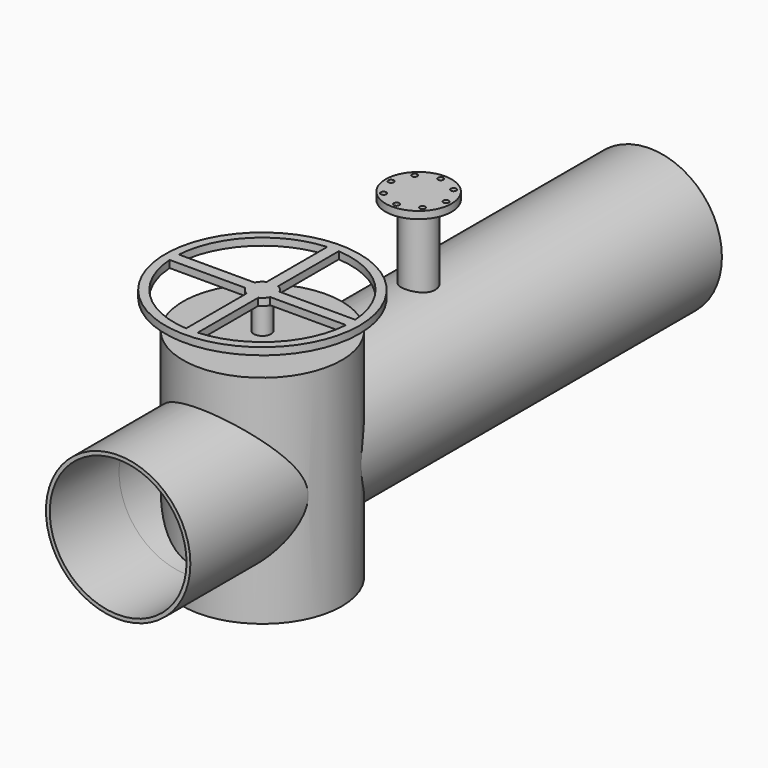
from build123d import *

# Parameters (mm, degrees)
F0_R      = 250
F0_R_2    = 237.3
F1_DEPTH  = 2000
F2_R      = 57
F3_DEPTH  = 500
F4_R      = 114.3
F5_DEPTH  = 25
F6_R      = 9.5
F7_DEPTH  = 30
F8_R      = 250
F8_R_2    = 236.736857
F9_DEPTH  = 300
F10_R     = 275
F11_DEPTH = 375
F12_R     = 30
F13_DEPTH = 100
F14_R     = 335.925566
F15_DEPTH = 25


with BuildPart() as f1:
    # F0 (on Front) → F1 (new body)
    with BuildSketch(Plane.XZ):
        Circle(F0_R)
        Circle(F0_R_2, mode=Mode.SUBTRACT)
    extrude(amount=F1_DEPTH)

    # F2 (on Top) → F3 (join)
    with BuildSketch(Plane.XY):
        with Locations((0, -1000)):
            Circle(F2_R)
    extrude(amount=F3_DEPTH)

    # F4 (on face) → F5 (join)
    with BuildSketch(Plane.XY.offset(500)):
        with Locations((0, -1000)):
            Circle(F4_R)
    extrude(amount=F5_DEPTH)

    # F6 (on face) → F7 (cut)
    with BuildSketch(Plane.XY.offset(525)):
        with Locations((0, -904.75)):
            Circle(F6_R)
        with Locations((-67.351921, -932.648079)):
            Circle(F6_R)
        with Locations((-95.25, -1000)):
            Circle(F6_R)
        with Locations((-67.351921, -1067.351921)):
            Circle(F6_R)
        with Locations((0, -1095.25)):
            Circle(F6_R)
        with Locations((67.351921, -1067.351921)):
            Circle(F6_R)
        with Locations((95.25, -1000)):
            Circle(F6_R)
        with Locations((67.351921, -932.648079)):
            Circle(F6_R)
    extrude(amount=-F7_DEPTH, mode=Mode.SUBTRACT)

    # F8 (on face) → F9 (join)
    with BuildSketch(Plane.XZ.offset(2000)):
        Circle(F8_R)
        Circle(F8_R_2, mode=Mode.SUBTRACT)
    extrude(amount=F9_DEPTH)

    # F10 (on Top) → F11 (join, symmetric)
    with BuildSketch(Plane.XY):
        with Locations((0, -1675.77356)):
            Circle(F10_R)
    extrude(amount=F11_DEPTH, both=True)

    # F12 (on face) → F13 (join)
    with BuildSketch(Plane.XY.offset(375)):
        with Locations((0, -1675.77356)):
            Circle(F12_R)
    extrude(amount=F13_DEPTH)

    # F14 (on face) → F15 (join)
    with BuildSketch(Plane.XY.offset(475)):
        with Locations((0, -1675.77356)):
            Circle(F14_R)
        with BuildLine():
            Line((-305.271112, -1695.77356), (-43.08422, -1695.77356))
            ThreePointArc((-43.08422, -1695.77356), (-33.587572, -1709.361132), (-20, -1718.857779))
            Line((-20, -1718.857779), (-20, -1981.044671))
            ThreePointArc((-20, -1981.044671), (-216.322042, -1892.095602), (-305.271112, -1695.77356))
        make_face(mode=Mode.SUBTRACT)
        with BuildLine():
            Line((20, -1981.044671), (20, -1718.857779))
            ThreePointArc((20, -1718.857779), (33.587572, -1709.361132), (43.08422, -1695.77356))
            Line((43.08422, -1695.77356), (305.271112, -1695.77356))
            ThreePointArc((305.271112, -1695.77356), (216.322042, -1892.095602), (20, -1981.044671))
        make_face(mode=Mode.SUBTRACT)
        with BuildLine():
            ThreePointArc((-20, -1632.68934), (-33.587572, -1642.185987), (-43.08422, -1655.77356))
            Line((-43.08422, -1655.77356), (-305.271112, -1655.77356))
            ThreePointArc((-305.271112, -1655.77356), (-216.322042, -1459.451518), (-20, -1370.502448))
            Line((-20, -1370.502448), (-20, -1632.68934))
        make_face(mode=Mode.SUBTRACT)
        with BuildLine():
            Line((305.271112, -1655.77356), (43.08422, -1655.77356))
            ThreePointArc((43.08422, -1655.77356), (33.587572, -1642.185987), (20, -1632.68934))
            Line((20, -1632.68934), (20, -1370.502448))
            ThreePointArc((20, -1370.502448), (216.322042, -1459.451518), (305.271112, -1655.77356))
        make_face(mode=Mode.SUBTRACT)
    extrude(amount=F15_DEPTH)


solid = f1.part
